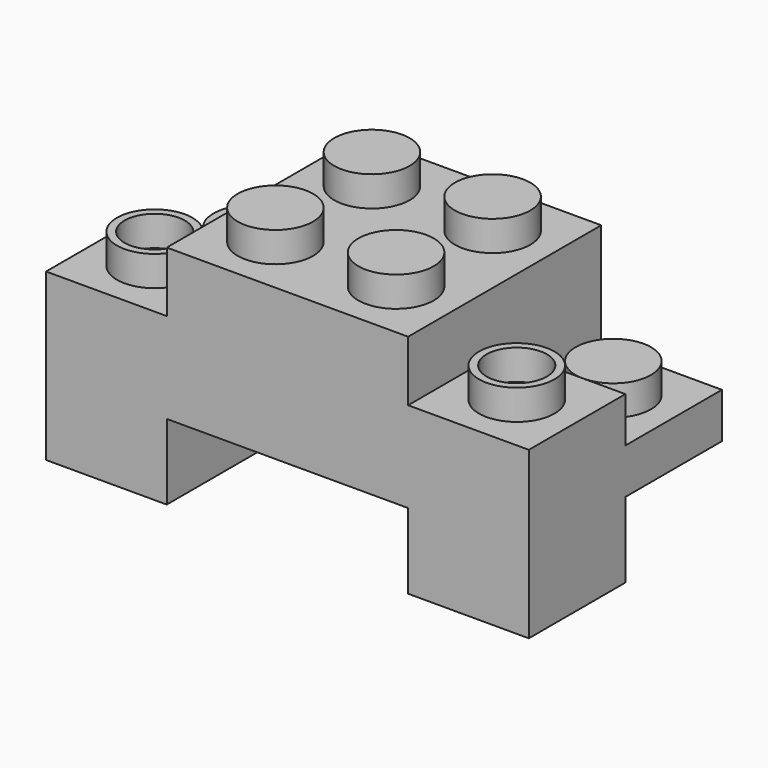
from build123d import *

# Parameters (mm, degrees)
F0_W     = 8
F0_H     = 8
F0_R     = 2.5
F1_DEPTH = 10
F2_DEPTH = 12
F3_DEPTH = 3
F4_DEPTH = 5
F5_DEPTH = 6
F0_R_2   = 2
F6_DEPTH = 8
F7_DEPTH = 6
F8_DEPTH = 5


with BuildPart() as f1:
    # F0 (on Top) → F1 (new body)
    with BuildSketch(Plane.XY):
        with Locations((-4, 4)):
            Rectangle(F0_W, F0_H)
        with Locations((-4, 4)):
            Circle(F0_R, mode=Mode.SUBTRACT)
        with Locations((4, 4)):
            Rectangle(F0_W, F0_H)
        with Locations((4, 4)):
            Circle(F0_R, mode=Mode.SUBTRACT)
        with Locations((-4, -4)):
            Rectangle(F0_W, F0_H)
        with Locations((-4, -4)):
            Circle(F0_R, mode=Mode.SUBTRACT)
        with Locations((4, -4)):
            Rectangle(F0_W, F0_H)
        with Locations((4, -4)):
            Circle(F0_R, mode=Mode.SUBTRACT)
    extrude(amount=F1_DEPTH)

    # F0 (on Top) → F2 (join)
    with BuildSketch(Plane.XY):
        with Locations((-4, 4)):
            Circle(F0_R)
        with Locations((4, 4)):
            Circle(F0_R)
        with Locations((-4, -4)):
            Circle(F0_R)
        with Locations((4, -4)):
            Circle(F0_R)
    extrude(amount=F2_DEPTH)

    # F0 (on Top) → F3 (join)
    with BuildSketch(Plane.XY):
        with Locations((-12, 4)):
            Rectangle(F0_W, F0_H)
        with Locations((-12, 4)):
            Circle(F0_R, mode=Mode.SUBTRACT)
        with Locations((12, 4)):
            Rectangle(F0_W, F0_H)
        with Locations((12, 4)):
            Circle(F0_R, mode=Mode.SUBTRACT)
    extrude(amount=F3_DEPTH)

    # F0 (on Top) → F4 (join)
    with BuildSketch(Plane.XY):
        with Locations((-12, 4)):
            Circle(F0_R)
        with Locations((12, 4)):
            Circle(F0_R)
    extrude(amount=F4_DEPTH)

    # F0 (on Top) → F5 (join)
    with BuildSketch(Plane.XY):
        with Locations((-12, -4)):
            Rectangle(F0_W, F0_H)
        with Locations((-12, -4)):
            Circle(F0_R, mode=Mode.SUBTRACT)
        with Locations((12, -4)):
            Rectangle(F0_W, F0_H)
        with Locations((12, -4)):
            Circle(F0_R, mode=Mode.SUBTRACT)
    extrude(amount=F5_DEPTH)

    # F0 (on Top) → F6 (join)
    with BuildSketch(Plane.XY):
        with Locations((-12, -4)):
            Circle(F0_R)
        with Locations((-12, -4)):
            Circle(F0_R_2, mode=Mode.SUBTRACT)
        with Locations((12, -4)):
            Circle(F0_R)
        with Locations((12, -4)):
            Circle(F0_R_2, mode=Mode.SUBTRACT)
    extrude(amount=F6_DEPTH)

    # F0 (on Top) → F7 (join)
    with BuildSketch(Plane.XY):
        with Locations((-12, -4)):
            Circle(F0_R_2)
        with Locations((12, -4)):
            Circle(F0_R_2)
    extrude(amount=F7_DEPTH)

    # F0 (on Top) → F8 (join)
    with BuildSketch(Plane.XY):
        with Locations((-12, -4)):
            Rectangle(F0_W, F0_H)
        with Locations((-12, -4)):
            Circle(F0_R, mode=Mode.SUBTRACT)
        with Locations((12, -4)):
            Rectangle(F0_W, F0_H)
        with Locations((12, -4)):
            Circle(F0_R, mode=Mode.SUBTRACT)
    extrude(amount=-F8_DEPTH)


solid = f1.part
